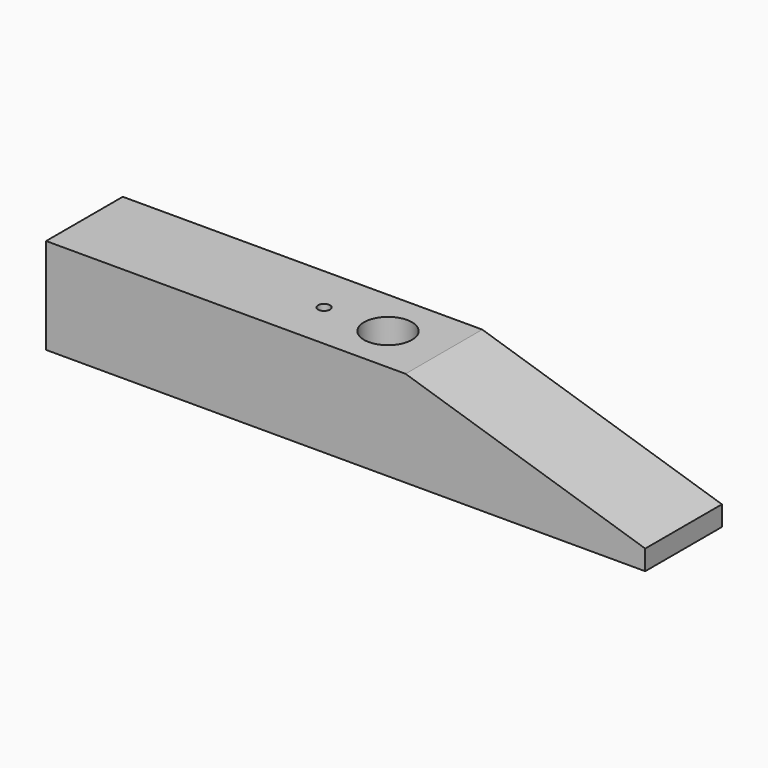
from build123d import *

# Parameters (mm, degrees)
F1_DEPTH = 12
F2_R     = 3
F3_DEPTH = 25
F4_R     = 0.75
F5_DEPTH = 6
F6_R     = 2.5
F7_DEPTH = 4


with BuildPart() as f1:
    # F0 (on Front) → F1 (new body)
    with BuildSketch(Plane.XZ):
        Polygon((6.70136, 35.939517), (-38.29864, 35.939517), (-38.29864, 23.939517), (36.70136, 23.939517), (36.70136, 26.439517), align=None)
    extrude(amount=F1_DEPTH)

    # F2 (on face) → F3 (cut)
    with BuildSketch(Plane.XY.offset(35.939517)):
        with Locations((-0.29864, -6)):
            Circle(F2_R)
    extrude(amount=-F3_DEPTH, mode=Mode.SUBTRACT)

    # F4 (on face) → F5 (cut)
    with BuildSketch(Plane.XY.offset(35.939517)):
        with Locations((-8.29864, -6)):
            Circle(F4_R)
    extrude(amount=-F5_DEPTH, mode=Mode.SUBTRACT)

    # F6 (on face) → F7 (cut)
    with BuildSketch(Plane(origin=(0, 0, 23.939517), x_dir=(1, 0, 0), z_dir=(0, 0, -1))):
        with Locations((-30.29864, 6)):
            Circle(F6_R)
    extrude(amount=-F7_DEPTH, mode=Mode.SUBTRACT)


solid = f1.part
